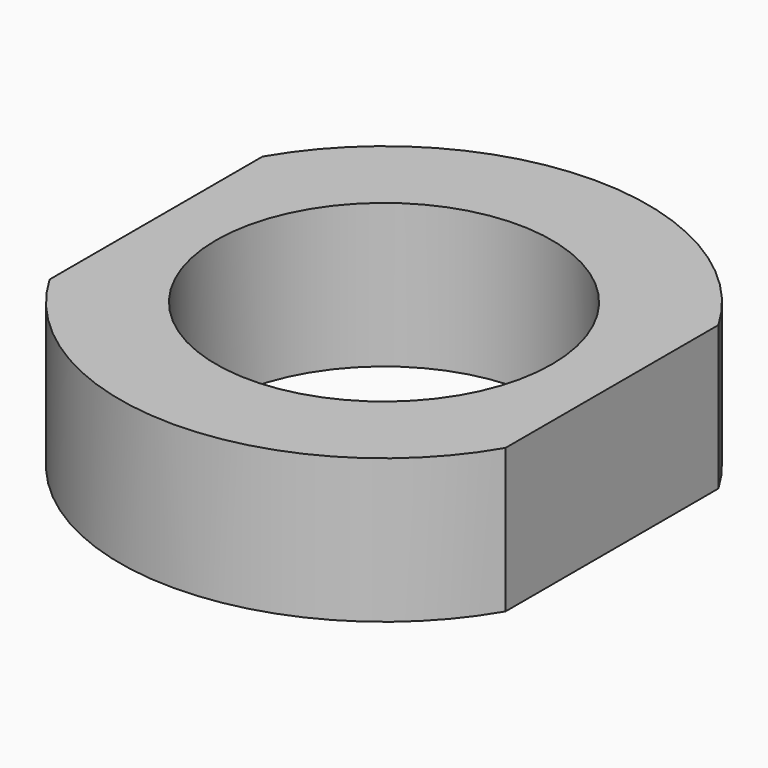
from build123d import *

# Parameters (mm, degrees)
F1_DEPTH = 3
F3_D     = 14


with BuildPart() as f1:
    # F0 (on Top) → F1 (new body, symmetric)
    with BuildSketch(Plane.XY):
        with BuildLine():
            Line((-9.5, 5.5452682532), (-9.5, -5.5452682532))
            ThreePointArc((-9.5, -5.5452682532), (0, -11), (9.5, -5.5452682532))
            Line((9.5, -5.5452682532), (9.5, 5.5452682532))
            ThreePointArc((9.5, 5.5452682532), (0, 11), (-9.5, 5.5452682532))
        make_face()
    extrude(amount=F1_DEPTH, both=True)

    # F3 (through all)
    with Locations(Plane.XY.offset(3)):
        with Locations((0, 0)):
            Hole(F3_D / 2)


solid = f1.part
